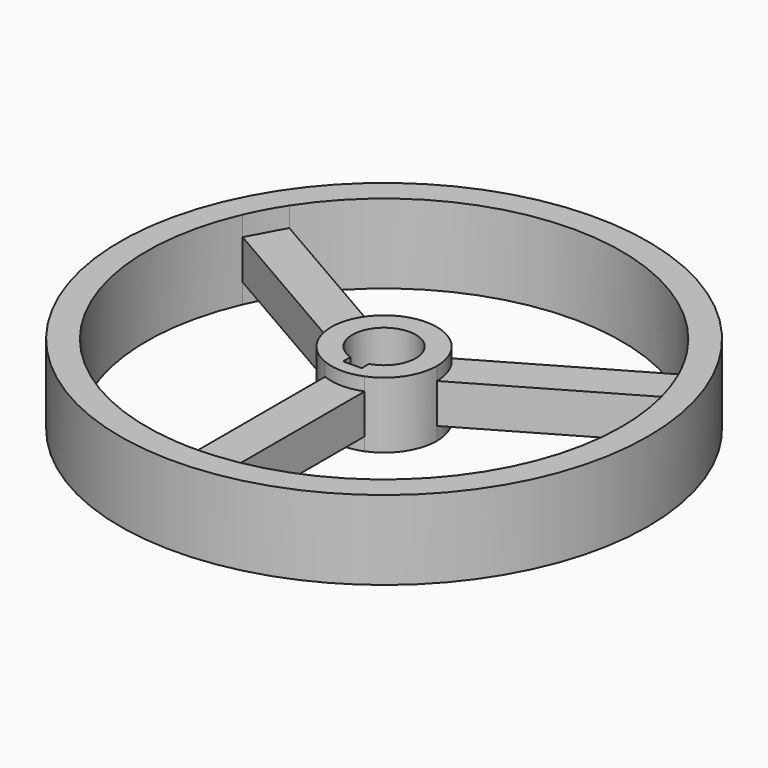
from build123d import *

# Parameters (mm, degrees)
F0_R     = 127
F1_DEPTH = 19.05
F2_DEPTH = 15.875
F3_DEPTH = 9.525


with BuildPart() as f1:
    # F0 (on Top) → F1 (new body, symmetric)
    with BuildSketch(Plane.XY):
        Circle(F0_R)
        with BuildLine():
            ThreePointArc((104.723777, 45.797604), (111.880333, 23.394041), (114.3, 0))
            ThreePointArc((114.3, 0), (84.122522, -77.381466), (9.525, -113.902434))
            ThreePointArc((9.525, -113.902434), (0, -114.3), (-9.525, -113.902434))
            ThreePointArc((-9.525, -113.902434), (-98.179536, -58.525795), (-104.723777, 45.797604))
            ThreePointArc((-104.723777, 45.797604), (-100.543052, 54.365289), (-95.662896, 62.554779))
            ThreePointArc((-95.662896, 62.554779), (0, 114.3), (95.662896, 62.554779))
            ThreePointArc((95.662896, 62.554779), (100.543052, 54.365289), (104.723777, 45.797604))
        make_face(mode=Mode.SUBTRACT)
    extrude(amount=F1_DEPTH, both=True)



with BuildPart() as f2:
    # F0 (on Top) → F2 (new body, symmetric)
    with BuildSketch(Plane.XY):
        with BuildLine():
            ThreePointArc((9.525, -23.54643), (21.060567, -14.199032), (25.4, 0))
            Line((25.4, 0), (18.128915, 17.790515))
            ThreePointArc((18.128915, 17.790515), (0, 25.4), (-18.128915, 17.790515))
            Line((-18.128915, 17.790515), (-25.4, 0))
            ThreePointArc((-25.4, 0), (-21.060567, -14.199032), (-9.525, -23.54643))
            Line((-9.525, -23.54643), (9.525, -23.54643))
        make_face()
        with BuildLine():
            ThreePointArc((-4.445, -14.624876), (0, 15.285452), (4.445, -14.624876))
            Line((4.445, -14.624876), (4.445, -19.05))
            Line((4.445, -19.05), (-4.445, -19.05))
            Line((-4.445, -19.05), (-4.445, -14.624876))
        make_face(mode=Mode.SUBTRACT)
        with BuildLine():
            Line((-25.4, 0), (-18.128915, 17.790515))
            ThreePointArc((-18.128915, 17.790515), (-23.512066, 9.609515), (-25.4, 0))
        make_face()
        with BuildLine():
            Line((18.128915, 17.790515), (25.4, 0))
            ThreePointArc((25.4, 0), (23.512066, 9.609515), (18.128915, 17.790515))
        make_face()
        with BuildLine():
            ThreePointArc((-9.525, -23.54643), (0, -25.4), (9.525, -23.54643))
            Line((9.525, -23.54643), (-9.525, -23.54643))
        make_face()
    extrude(amount=F2_DEPTH, both=True)


with BuildPart() as f1_1:
    add(f1.part)

    add(f2.part)  # F3 merges F2
    # F0 (on Top) → F3 (join, symmetric)
    with BuildSketch(Plane.XY):
        with BuildLine():
            Line((-18.128915, 17.790515), (-95.662896, 62.554779))
            Line((-95.662896, 62.554779), (-104.723777, 45.797604))
            Line((-104.723777, 45.797604), (-25.4, 0))
            ThreePointArc((-25.4, 0), (-23.512066, 9.609515), (-18.128915, 17.790515))
        make_face()
        with BuildLine():
            Line((25.4, 0), (104.723777, 45.797604))
            Line((104.723777, 45.797604), (95.662896, 62.554779))
            Line((95.662896, 62.554779), (18.128915, 17.790515))
            ThreePointArc((18.128915, 17.790515), (23.512066, 9.609515), (25.4, 0))
        make_face()
        with BuildLine():
            Line((-9.525, -113.902434), (9.525, -113.902434))
            Line((9.525, -113.902434), (9.525, -23.54643))
            ThreePointArc((9.525, -23.54643), (0, -25.4), (-9.525, -23.54643))
            Line((-9.525, -23.54643), (-9.525, -113.902434))
        make_face()
    extrude(amount=F3_DEPTH, both=True)


solid = f1_1.part
